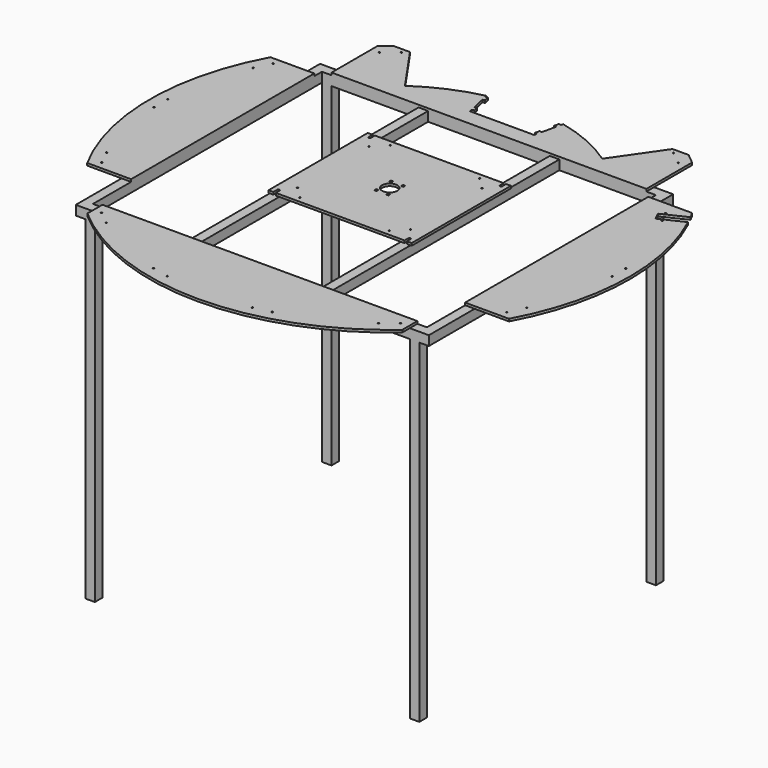
from build123d import *

# Parameters (mm, degrees)
F1_W     = 740
F1_H     = 640
F1_W_2   = 20
F1_H_2   = 600
F2_DEPTH = 20
F0_R     = 1.4
F0_R_2   = 1.9
F0_W     = 5
F0_H     = 5
F0_R_3   = 16
F3_DEPTH = 5
F4_W     = 20
F4_H     = 20
F5_DEPTH = 700


with BuildPart() as f2:
    # F1 (on Top) → F2 (new body)
    with BuildSketch(Plane.XY):
        with Locations((0, -40)):
            Rectangle(F1_W, F1_H)
        Polygon((-350, -340), (-350, 260), (-147.5, 260), (-127.5, 260), (127.5, 260), (147.5, 260), (350, 260), (350, -340), (147.5, -340), (127.5, -340), (-127.5, -340), (-147.5, -340), align=None, mode=Mode.SUBTRACT)
        with Locations((137.5, -40)):
            Rectangle(F1_W_2, F1_H_2)
        with Locations((-137.5, -40)):
            Rectangle(F1_W_2, F1_H_2)
    extrude(amount=-F2_DEPTH)

    # F0 (on Top) → F3 (join)
    with BuildSketch(Plane.XY):
        with BuildLine():
            Line((330, -340), (-330, -340))
            Line((-330, -340), (-330, -379.616912))
            ThreePointArc((-330, -379.616912), (0, -503), (330, -379.616912))
            Line((330, -379.616912), (330, -340))
        make_face()
        with Locations((-285.202138, -385.913671)):
            Circle(F0_R, mode=Mode.SUBTRACT)
        with Locations((-313.348072, -363.468038)):
            Circle(F0_R, mode=Mode.SUBTRACT)
        with Locations((-124.358751, -463.371764)):
            Circle(F0_R, mode=Mode.SUBTRACT)
        with Locations((-89.261346, -471.382518)):
            Circle(F0_R, mode=Mode.SUBTRACT)
        with Locations((89.261346, -471.382518)):
            Circle(F0_R, mode=Mode.SUBTRACT)
        with Locations((124.358751, -463.371764)):
            Circle(F0_R, mode=Mode.SUBTRACT)
        with Locations((285.202138, -385.913671)):
            Circle(F0_R, mode=Mode.SUBTRACT)
        with Locations((313.348072, -363.468038)):
            Circle(F0_R, mode=Mode.SUBTRACT)
        with BuildLine():
            Line((330, 260), (330, 368.951685))
            Line((330, 368.951685), (330, 379.616912))
            ThreePointArc((330, 379.616912), (319.49595, 388.498826), (308.752952, 397.090185))
            Line((308.752952, 397.090185), (275.202138, 397.090185))
            Line((275.202138, 397.090185), (206.772293, 298.352508))
            ThreePointArc((206.772293, 298.352508), (146.302539, 332.21163), (80.5, 353.961509))
            Line((80.5, 353.961509), (79.396479, 349.085021))
            Line((79.396479, 349.085021), (77.189345, 339.331634))
            Line((77.189345, 339.331634), (70.567941, 310.071473))
            Line((70.567941, 310.071473), (68.360806, 300.318086))
            Line((68.360806, 300.318086), (67.03647, 294.465807))
            Line((67.03647, 294.465807), (-67.03647, 294.465807))
            Line((-67.03647, 294.465807), (-68.360806, 300.318086))
            Line((-68.360806, 300.318086), (-70.567941, 310.071473))
            Line((-70.567941, 310.071473), (-77.189345, 339.331634))
            Line((-77.189345, 339.331634), (-79.396479, 349.085021))
            Line((-79.396479, 349.085021), (-80.5, 353.961509))
            ThreePointArc((-80.5, 353.961509), (-146.302539, 332.21163), (-206.772293, 298.352508))
            Line((-206.772293, 298.352508), (-275.202138, 397.090185))
            Line((-275.202138, 397.090185), (-308.752952, 397.090185))
            ThreePointArc((-308.752952, 397.090185), (-319.49595, 388.498826), (-330, 379.616912))
            Line((-330, 379.616912), (-330, 260))
            Line((-330, 260), (330, 260))
        make_face()
        with Locations((-313.348072, 364.644552)):
            Circle(F0_R, mode=Mode.SUBTRACT)
        with Locations((-285.202138, 387.090185)):
            Circle(F0_R, mode=Mode.SUBTRACT)
        with Locations((313.348072, 364.644552)):
            Circle(F0_R, mode=Mode.SUBTRACT)
        with Locations((285.202138, 387.090185)):
            Circle(F0_R, mode=Mode.SUBTRACT)
        Polygon((77.189345, 339.331634), (79.396479, 349.085021), (74.519786, 350.188588), (72.312651, 340.435201), align=None)
        Polygon((-74.519786, 350.188588), (-79.396479, 349.085021), (-77.189345, 339.331634), (-72.312651, 340.435201), align=None)
        Polygon((68.360806, 300.318086), (70.567941, 310.071473), (65.691247, 311.17504), (63.484113, 301.421653), align=None)
        Polygon((-65.691247, 311.17504), (-70.567941, 310.071473), (-68.360806, 300.318086), (-63.484113, 301.421653), align=None)
        with BuildLine():
            Line((442.050902, 240), (350, 240))
            Line((350, 240), (350, -240))
            Line((350, -240), (442.050902, -240))
            ThreePointArc((442.050902, -240), (502.730809, -16.453988), (456.79808, 210.581372))
            Line((456.79808, 210.581372), (407.539006, 186.859452))
            Line((407.539006, 186.859452), (403.634053, 194.968172))
            Line((403.634053, 194.968172), (399.729099, 203.076892))
            Line((399.729099, 203.076892), (448.971082, 226.790581))
            ThreePointArc((448.971082, 226.790581), (445.559947, 233.420937), (442.050902, 240))
        make_face()
        with Locations((424.655149, -223.893378)):
            Circle(F0_R, mode=Mode.SUBTRACT)
        with Locations((440.274964, -191.458498)):
            Circle(F0_R, mode=Mode.SUBTRACT)
        with Locations((480, -17.411743)):
            Circle(F0_R, mode=Mode.SUBTRACT)
        with Locations((480, 18.588257)):
            Circle(F0_R, mode=Mode.SUBTRACT)
        with Locations((419.869226, 188.912666)):
            Circle(F0_R_2, mode=Mode.SUBTRACT)
        with Locations((409.022132, 211.436888)):
            Circle(F0_R_2, mode=Mode.SUBTRACT)
        with BuildLine():
            Line((-350, -240), (-350, 240))
            Line((-350, 240), (-442.050902, 240))
            ThreePointArc((-442.050902, 240), (-503, 0), (-442.050902, -240))
            Line((-442.050902, -240), (-350, -240))
        make_face()
        with Locations((-424.655149, -223.893378)):
            Circle(F0_R, mode=Mode.SUBTRACT)
        with Locations((-440.274964, -191.458498)):
            Circle(F0_R, mode=Mode.SUBTRACT)
        with Locations((-480, -17.411743)):
            Circle(F0_R, mode=Mode.SUBTRACT)
        with Locations((-480, 18.588257)):
            Circle(F0_R, mode=Mode.SUBTRACT)
        with Locations((-440.274964, 192.635012)):
            Circle(F0_R, mode=Mode.SUBTRACT)
        with Locations((-424.655149, 225.069891)):
            Circle(F0_R, mode=Mode.SUBTRACT)
        with BuildLine():
            Line((-140, 130), (-150, 130))
            Line((-150, 130), (-150, -130))
            Line((-150, -130), (-140, -130))
            Line((-140, -130), (-140, -120))
            ThreePointArc((-140, -120), (-137.5, -117.5), (-135, -120))
            Line((-135, -120), (-134.791644, -130))
            Line((-134.791644, -130), (135, -130))
            Line((135, -130), (135, -120))
            ThreePointArc((135, -120), (137.5, -117.5), (140, -120))
            Line((140, -120), (140, -130))
            Line((140, -130), (150, -130))
            Line((150, -130), (150, 130))
            Line((150, 130), (140, 130))
            Line((140, 130), (140, 120))
            ThreePointArc((140, 120), (137.5, 117.5), (135, 120))
            Line((135, 120), (135, 130))
            Line((135, 130), (-135, 130))
            Line((-135, 130), (-135, 120))
            ThreePointArc((-135, 120), (-137.5, 117.5), (-140, 120))
            Line((-140, 120), (-140, 130))
        make_face()
        with Locations((-93.691649, -118.440386)):
            Circle(F0_R, mode=Mode.SUBTRACT)
        with Locations((-118.440386, -93.691649)):
            Circle(F0_R, mode=Mode.SUBTRACT)
        with Locations((93.691649, -118.440386)):
            Circle(F0_R, mode=Mode.SUBTRACT)
        with Locations((118.440386, -93.691649)):
            Circle(F0_R, mode=Mode.SUBTRACT)
        with Locations((-12.5, -19.5)):
            Rectangle(F0_W, F0_H, mode=Mode.SUBTRACT)
        Circle(F0_R_3, mode=Mode.SUBTRACT)
        with Locations((-12.5, 19.5)):
            Rectangle(F0_W, F0_H, mode=Mode.SUBTRACT)
        with Locations((-118.440386, 93.691649)):
            Circle(F0_R, mode=Mode.SUBTRACT)
        with Locations((-93.691649, 118.440386)):
            Circle(F0_R, mode=Mode.SUBTRACT)
        with Locations((12.5, -19.5)):
            Rectangle(F0_W, F0_H, mode=Mode.SUBTRACT)
        with Locations((12.5, 19.5)):
            Rectangle(F0_W, F0_H, mode=Mode.SUBTRACT)
        with Locations((118.440386, 93.691649)):
            Circle(F0_R, mode=Mode.SUBTRACT)
        with Locations((93.691649, 118.440386)):
            Circle(F0_R, mode=Mode.SUBTRACT)
    extrude(amount=F3_DEPTH)

    # F4 (on face) → F5 (join)
    with BuildSketch(Plane(origin=(0, 0, -20), x_dir=(1, 0, 0), z_dir=(0, 0, -1))):
        with Locations((-340, 350)):
            Rectangle(F4_W, F4_H)
        with Locations((340, 350)):
            Rectangle(F4_W, F4_H)
        with Locations((-340, -270)):
            Rectangle(F4_W, F4_H)
        with Locations((340, -270)):
            Rectangle(F4_W, F4_H)
    extrude(amount=F5_DEPTH)


solid = f2.part
